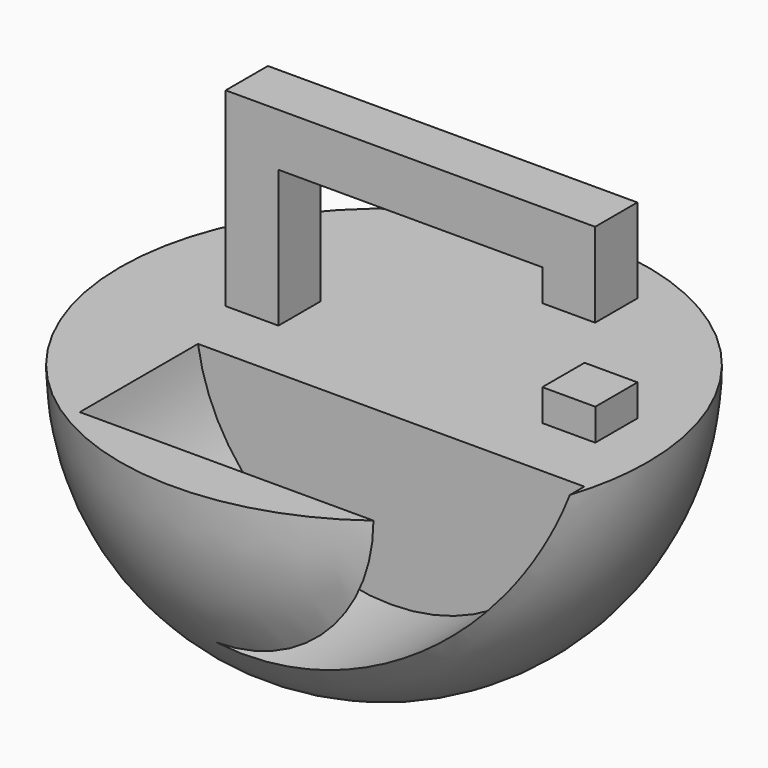
from build123d import *

# Parameters (mm, degrees)
SKETCH_R                   = 18.5
EXTRUDE001_DEPTH           = 14
EXTRUDE001_PLACEMENT_ANGLE = 90
SKETCH002_W                = 5.018169
SKETCH002_H                = 3
EXTRUDE002_DEPTH           = 5
BOX_W                      = 210
BOX_H                      = 320
BOX_DEPTH                  = 320
CUT001_PLACEMENT_ANGLE     = 90
EXTRUDE_DEPTH              = 5


with BuildPart() as hueco:
    # Sketch → Extrude001 (new body)
    with BuildSketch(Plane.XY):
        with Locations((53.478226, 36.958317)):
            Circle(SKETCH_R)
    extrude(amount=EXTRUDE001_DEPTH)


with BuildPart() as hueco_1:
    # Extrude001 placement: moved
    add(hueco.part.moved(Location((-48, -6, -9.25))).rotate(Axis((-48, -6, -9.25), (1, 0, 0)), EXTRUDE001_PLACEMENT_ANGLE))


with BuildPart() as extrude002:
    # Sketch002 → Extrude002 (new body)
    with BuildSketch(Plane.XZ):
        with Locations((27.509085, -11.5)):
            Rectangle(SKETCH002_W, SKETCH002_H)
    extrude(amount=-EXTRUDE002_DEPTH)


with BuildPart() as cubo:
    # Box → Box (new body)
    with BuildSketch(Plane(origin=(0, -151, -150), x_dir=(1, 0, 0), z_dir=(0, 0, 1))):
        with Locations((105, 160)):
            Rectangle(BOX_W, BOX_H)
    extrude(amount=BOX_DEPTH)


with BuildPart() as cut:
    # Sphere → Sphere (revolve)
    with BuildSketch(Plane.XZ):
        with BuildLine():
            ThreePointArc((0, -150), (150, 0), (0, 150))
            Line((0, 150), (0, -150))
        make_face()
    revolve(axis=Axis((0, 0, 0), (0, 0, 1)))

    # Cut: cut Cubo
    add(cubo.part, mode=Mode.SUBTRACT)


with BuildPart() as cut001:
    # Sphere001 → Sphere001 (revolve)
    with BuildSketch(Plane.XZ):
        with BuildLine():
            ThreePointArc((0, -25), (25, 0), (0, 25))
            Line((0, 25), (0, -25))
        make_face()
    revolve(axis=Axis((0, 0, 0), (0, 0, 1)))

    # Cut001: cut Cut
    add(cut.part, mode=Mode.SUBTRACT)


with BuildPart() as cut001_1:
    # Cut001 placement: moved
    add(cut001.part.moved(Location((10, 0, -13))).rotate(Axis((10, 0, -13), (0, 1, 0)), CUT001_PLACEMENT_ANGLE))


with BuildPart() as base:
    # Sketch001 → Extrude (new body)
    with BuildSketch(Plane.XZ):
        Polygon((0, 0), (25, 0), (25, -3), (30, -3), (30, 5), (-5, 5), (-5, -13), (0, -13), align=None)
    extrude(amount=-EXTRUDE_DEPTH)

    # Fusion: union Cut001
    add(cut001_1.part)

    # Fusion001: union Extrude002
    add(extrude002.part)


with BuildPart() as base_1:
    # Fusion001 placement: moved
    add(base.part.moved(Location((-10, 0, 38))))

    # Cut002: cut hueco
    add(hueco_1.part, mode=Mode.SUBTRACT)


solid = base_1.part
